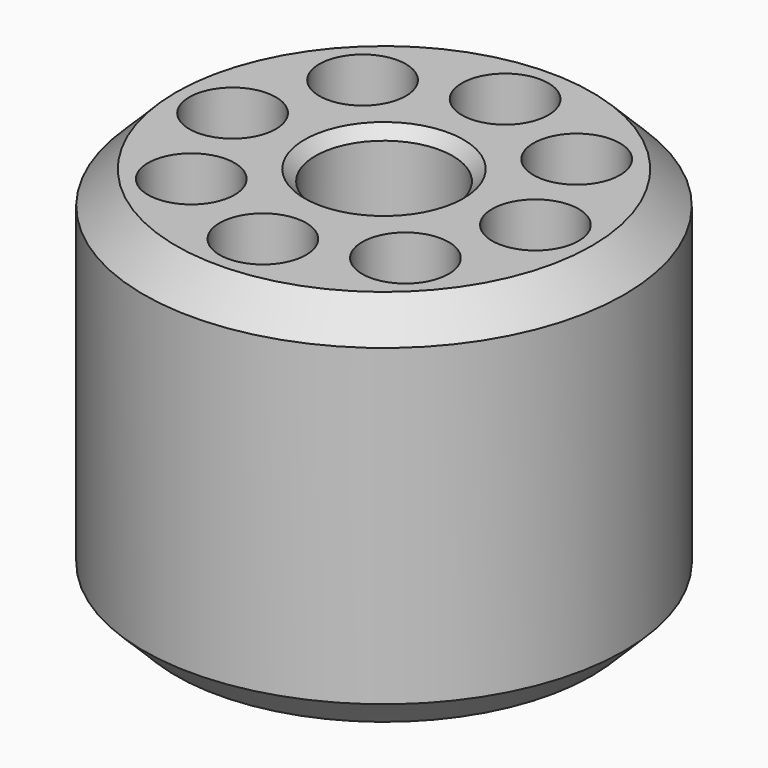
from build123d import *

# Parameters (mm, degrees)
F0_R     = 22.225
F0_R_2   = 4
F0_R_3   = 6.35
F1_DEPTH = 35
F2_SIZE  = 3
F3_SIZE  = 1


with BuildPart() as f1:
    # F0 (on Top) → F1 (new body)
    with BuildSketch(Plane.XY):
        Circle(F0_R)
        with Locations((-9.899495, -9.899495)):
            Circle(F0_R_2, mode=Mode.SUBTRACT)
        with Locations((0, -14)):
            Circle(F0_R_2, mode=Mode.SUBTRACT)
        with Locations((9.899495, -9.899495)):
            Circle(F0_R_2, mode=Mode.SUBTRACT)
        with Locations((-14, 0)):
            Circle(F0_R_2, mode=Mode.SUBTRACT)
        with Locations((-9.899495, 9.899495)):
            Circle(F0_R_2, mode=Mode.SUBTRACT)
        Circle(F0_R_3, mode=Mode.SUBTRACT)
        with Locations((9.899495, 9.899495)):
            Circle(F0_R_2, mode=Mode.SUBTRACT)
        with Locations((14, 0)):
            Circle(F0_R_2, mode=Mode.SUBTRACT)
        with Locations((0, 14)):
            Circle(F0_R_2, mode=Mode.SUBTRACT)
    extrude(amount=F1_DEPTH)

    # F2
    f2_edges = [f1.edges().sort_by_distance(p)[0] for p in [
        (-22.225, 0, 35),
        (-22.225, 0, 0),
    ]]
    chamfer(f2_edges, length=F2_SIZE)

    # F3
    f3_edges = [f1.edges().sort_by_distance(p)[0] for p in [
        (-6.35, 0, 0),
        (-6.35, 0, 35),
    ]]
    chamfer(f3_edges, length=F3_SIZE)


solid = f1.part
